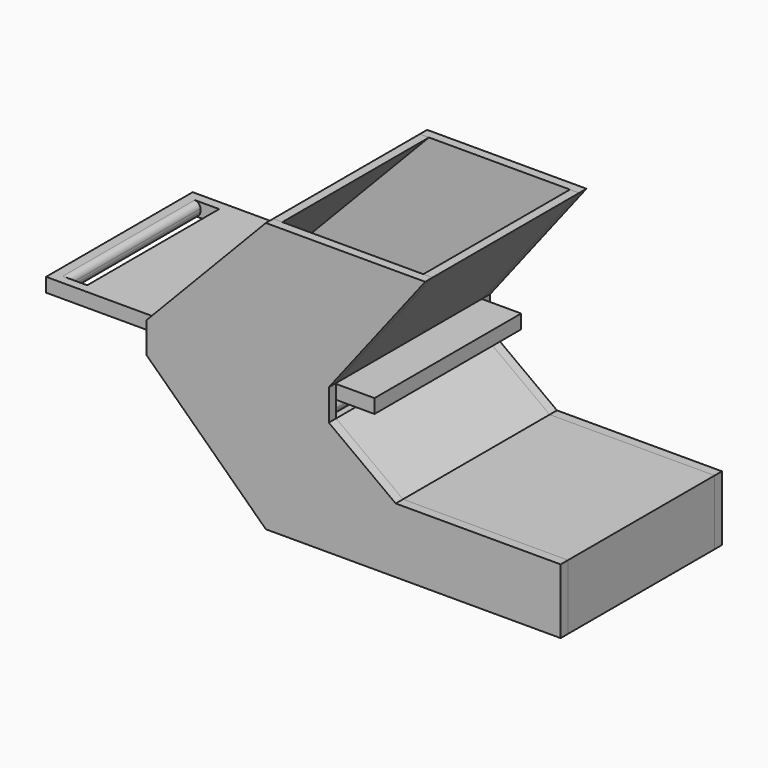
from build123d import *

# Parameters (mm, degrees)
F1_DEPTH  = 200
F0_W      = 333.365008235
F0_H      = 15.2596643893
F2_W      = 20.4179258991
F2_H      = 180
F3_DEPTH  = 25
F4_R      = 6.2769552622
F7_DEPTH  = 10
F8_DEPTH  = 25
F11_DEPTH = 10


with BuildPart() as f1:
    # F0 (on Front) → F1 (new body)
    with BuildSketch(Plane.XZ):
        Polygon((41.2563910439, 135.4811938527), (-88.7435870727, 0), (-78.7435870727, 0), (51.2563910439, 135.4811938527), align=None)
    extrude(amount=F1_DEPTH)


with BuildPart() as f1b:
    # F0 (on Front) → F1, piece 2 (new body)
    with BuildSketch(Plane.XZ):
        Polygon((205.112572035, 135.4811938527), (99.9573543668, 0), (109.9573543668, 0), (215.112572035, 135.4811938527), align=None)
    extrude(amount=F1_DEPTH)


with BuildPart() as f1c:
    # F0 (on Front) → F1, piece 3 (new body)
    with BuildSketch(Plane.XZ):
        with BuildLine():
            ThreePointArc((-88.7435870727, -34.0165881674), (-83.0867328232, -31.6734424169), (-80.7435870727, -26.0165881674))
            ThreePointArc((-80.7435870727, -26.0165881674), (-94.4004413222, -20.3597339179), (-88.7435870727, -34.0165881674))
        make_face()
    extrude(amount=F1_DEPTH)


with BuildPart() as f1d:
    # F0 (on Front) → F1, piece 4 (new body)
    with BuildSketch(Plane.XZ):
        with BuildLine():
            ThreePointArc((107.9573543668, -26.0165881674), (94.3005001173, -20.3597339179), (99.9573543668, -34.0165881674))
            ThreePointArc((99.9573543668, -34.0165881674), (105.6142086163, -31.6734424169), (107.9573543668, -26.0165881674))
        make_face()
    extrude(amount=F1_DEPTH)


with BuildPart() as f1e:
    # F0 (on Front) → F1, piece 5 (new body)
    with BuildSketch(Plane.XZ):
        Polygon((-78.7435870727, -34.0165881674), (-88.7435870727, -34.0165881674), (41.2563910439, -158.7571062403), (362.9086315632, -158.7571062403), (362.9086315632, -87.9040136933), (182.9500347376, -87.9040136933), (109.9573543668, -34.0165881674), (99.9573543668, -34.0165881674), (182.9500347376, -95.2865930495), (355.1130890846, -95.2865930495), (355.1130890846, -148.7571062403), (41.2563910439, -148.7571062403), align=None)
    extrude(amount=F1_DEPTH)


with BuildPart() as f1f:
    # F0 (on Front) → F1, piece 6 (new body)
    with BuildSketch(Plane.XZ):
        with Locations((-39.8583337665, -8.5290987627)):
            Rectangle(F0_W, F0_H)
    extrude(amount=F1_DEPTH)

    # F2 (on face) → F3 (cut)
    with BuildSketch(Plane.XY.offset(-0.899266568)):
        with Locations((-179.6501800418, -100.2876753919)):
            Rectangle(F2_W, F2_H)
    extrude(amount=-F3_DEPTH, mode=Mode.SUBTRACT)

    # F4
    f4_edges = [f1f.edges().sort_by_distance(p)[0] for p in [
        (-189.859143, -100.287675, -0.899267),
        (-189.859143, -100.287675, -16.158931),
    ]]
    fillet(f4_edges, radius=F4_R)

    # F8 (add): a face of the model
    f8_faces = [f1f.faces().sort_by_distance(p)[0] for p in [
        (126.824170351, -100, -8.5290987627),
    ]]
    extrude(f8_faces, amount=F8_DEPTH)


with BuildPart() as f7:
    # F6 (on 3pt) → F7 (new body)
    with BuildSketch(Plane(origin=(0, -200, 0), x_dir=(-1, 0, 0), z_dir=(0, 1, 0))):
        Polygon((-41.2563910439, -158.7571062403), (88.7435870727, -34.0165881674), (88.7435870727, 0), (-41.2563910439, 135.4811938527), (-51.2563910439, 135.4811938527), (-205.112572035, 135.4811938527), (-215.112572035, 135.4811938527), (-109.9573543668, 0), (-109.9573543668, -34.0165881674), (-182.9500347376, -87.9040136933), (-362.9086315632, -87.9040136933), (-362.9086315632, -158.7571062403), align=None)
    extrude(amount=-F7_DEPTH)


with BuildPart() as f11:
    # F10 (on 3pt) → F11 (new body)
    with BuildSketch(Plane.XZ):
        Polygon((362.9086315632, -158.7571062403), (362.9086315632, -87.9040136933), (182.9500347376, -87.9040136933), (109.9573543668, -34.0165881674), (109.9573543668, 0), (215.112572035, 135.4811938527), (41.2563910439, 135.4811938527), (-88.7435870727, 0), (-88.7435870727, -34.0165881674), (41.2563910439, -158.7571062403), align=None)
    extrude(amount=-F11_DEPTH)


solid = Compound([f1.part, f1b.part, f1c.part, f1d.part, f1e.part, f1f.part, f7.part, f11.part])
